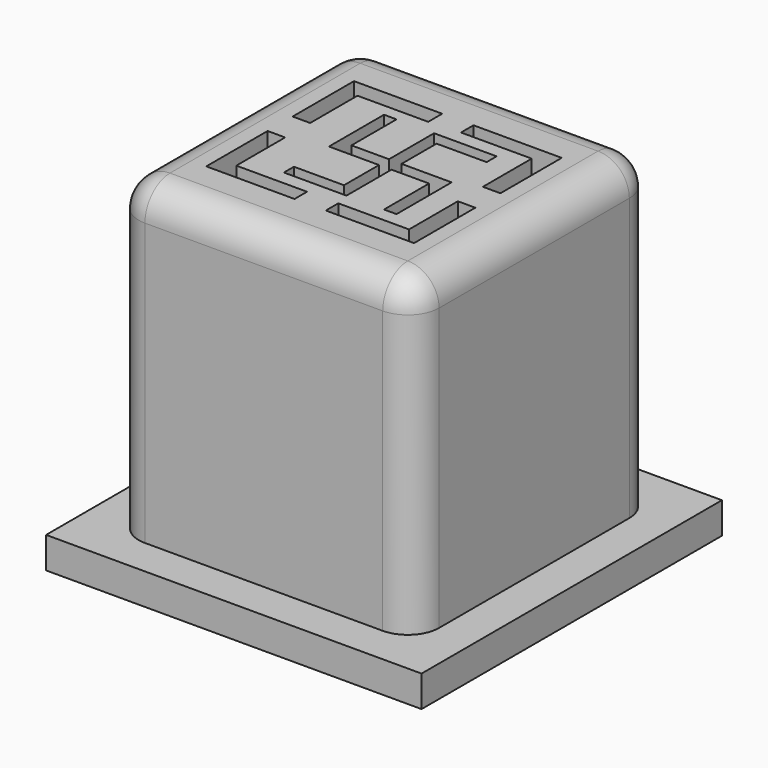
from build123d import *

# Parameters (mm, degrees)
SKETCH_W        = 9.6
SKETCH_H        = 9.6
PAD_DEPTH       = 10
SKETCH002_W     = 12
SKETCH002_H     = 12
PAD001_DEPTH    = 1
SKETCH003_W     = 3
SKETCH003_H     = 6
POCKET_DEPTH    = 9
SKETCH004_W     = 3
SKETCH004_H     = 6
POCKET001_DEPTH = 9
POCKET002_DEPTH = 11.001
POCKET003_DEPTH = 11.001
POCKET004_DEPTH = 11.001
POCKET005_DEPTH = 11.001
FILLET_R        = 1
POCKET006_DEPTH = 11.001


with BuildPart() as part:
    # Sketch → Pad (new body)
    with BuildSketch(Plane.XY):
        Rectangle(SKETCH_W, SKETCH_H)
    extrude(amount=PAD_DEPTH)

    # Sketch002 → Pad001 (join)
    with BuildSketch(Plane(origin=(0, 0, 0), x_dir=(1, 0, 0), z_dir=(0, 0, -1))):
        Rectangle(SKETCH002_W, SKETCH002_H)
    extrude(amount=PAD001_DEPTH)

    # Sketch003 → Pocket (cut)
    with BuildSketch(Plane(origin=(0, 0, -2), x_dir=(1, 0, 0), z_dir=(0, 0, -1))):
        with Locations((-2.5, 0)):
            Rectangle(SKETCH003_W, SKETCH003_H)
    extrude(amount=-POCKET_DEPTH, mode=Mode.SUBTRACT)

    # Sketch004 → Pocket001 (cut)
    with BuildSketch(Plane(origin=(0, 0, -2), x_dir=(1, 0, 0), z_dir=(0, 0, -1))):
        with Locations((2.5, 0)):
            Rectangle(SKETCH004_W, SKETCH004_H)
    extrude(amount=-POCKET001_DEPTH, mode=Mode.SUBTRACT)

    # Sketch001 → Pocket002 (cut, through all)
    with BuildSketch(Plane.XY.offset(10)):
        Polygon((3.32, -0.5), (3.32, -2.95), (0.5, -2.95), (0.5, -2.45), (2.76, -2.45), (2.76, -0.5), align=None)
    extrude(amount=-POCKET002_DEPTH, mode=Mode.SUBTRACT)

    # Sketch005 → Pocket003 (cut, through all)
    with BuildSketch(Plane.XY.offset(10)):
        Polygon((-3.32, -0.5), (-3.32, -2.95), (-0.5, -2.95), (-0.5, -2.45), (-2.76, -2.45), (-2.76, -0.5), align=None)
    extrude(amount=-POCKET003_DEPTH, mode=Mode.SUBTRACT)

    # Sketch007 → Pocket004 (cut, through all)
    with BuildSketch(Plane.XY.offset(10)):
        Polygon((-2.76, 0.5), (-3.32, 0.5), (-3.32, 2.95), (-0.5, 2.95), (-0.5, 2.39), (-2.76, 2.39), align=None)
    extrude(amount=-POCKET004_DEPTH, mode=Mode.SUBTRACT)

    # Sketch006 → Pocket005 (cut, through all)
    with BuildSketch(Plane.XY.offset(10)):
        Polygon((0.5, 2.95), (3.32, 2.95), (3.32, 0.5), (2.76, 0.5), (2.76, 2.45), (0.5, 2.45), align=None)
    extrude(amount=-POCKET005_DEPTH, mode=Mode.SUBTRACT)

    # Fillet
    fillet_edges = [part.edges().sort_by_distance(p)[0] for p in [
        (0, 4.8, 10),
        (4.8, 0, 10),
        (0, -4.8, 10),
        (4.8, -4.8, 5),
        (4.8, 4.8, 5),
        (-4.8, 0, 10),
        (-4.8, -4.8, 5),
        (-4.8, 4.8, 5),
    ]]
    fillet(fillet_edges, radius=FILLET_R)

    # Sketch008 (on Face23 of Fillet) → Pocket006 (cut, through all)
    with BuildSketch(Plane.XY.offset(10)):
        Polygon((0.4, -0.2), (0.4, -2), (-1.6, -2), (-1.6, -1.598578), (0, -1.598578), (0, -0.2), (-1.6, -0.2), (-1.6, 2), (-1.2, 2), (-1.2, 0.2), (0, 0.2), (0, 2), (2, 2), (2, 1.6), (0.4, 1.6), (0.4, 0.2), (2, 0.2), (2, -2), (1.6, -2), (1.6, -0.2), align=None)
    extrude(amount=-POCKET006_DEPTH, mode=Mode.SUBTRACT)


solid = part.part
